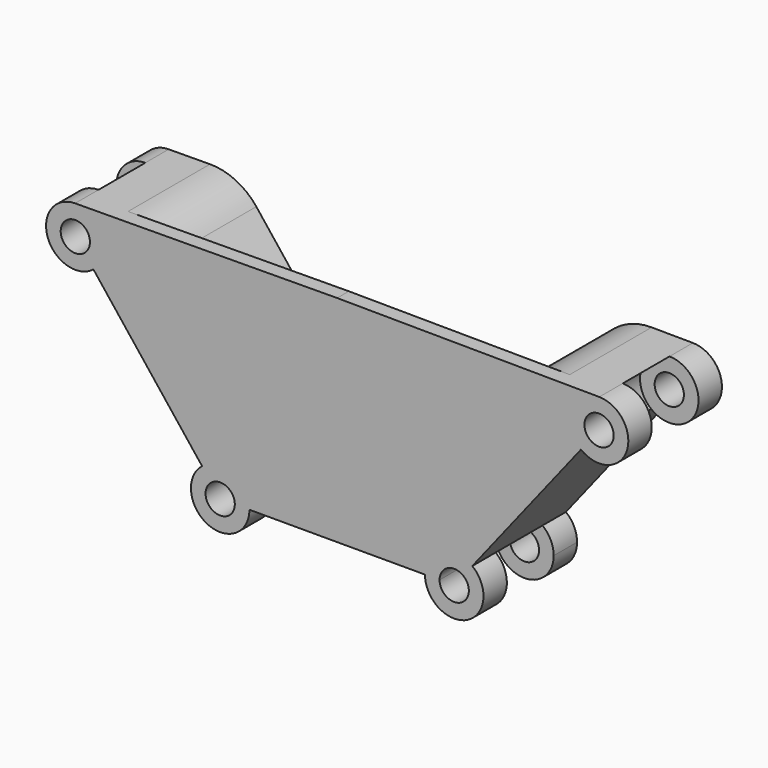
from build123d import *

# Parameters (mm, degrees)
F2_DEPTH = 50.8
F4_DEPTH = 88.9
F5_R     = 50.8
F6_R     = 12.7
F7_DEPTH = 25.4


with BuildPart() as f2:
    # F0 (on Front) → F2 (new body, symmetric)
    with BuildSketch(Plane.XZ):
        with BuildLine():
            Line((-76.2, 0), (0, 0))
            Line((0, 0), (76.2, 0))
            ThreePointArc((76.2, 0), (90.5141334361, 22.8530864989), (117.3231151597, 19.948525))
            Line((117.3231151597, 19.948525), (211.6618061177, 139.639675))
            ThreePointArc((211.6618061177, 139.639675), (203.4161012645, 167.9938925468), (227.564983392, 184.9875617564))
            Line((227.564983392, 184.9875617564), (0, 186.6008240309))
            Line((0, 186.6008240309), (-227.564983392, 184.9875617564))
            ThreePointArc((-227.564983392, 184.9875617564), (-209.4881838332, 177.6122613863), (-201.9849212774, 159.5882))
            ThreePointArc((-201.9849212774, 159.5882), (-204.5318347785, 148.5023334361), (-211.6618061177, 139.639675))
            Line((-211.6618061177, 139.639675), (-117.3231151597, 19.948525))
            ThreePointArc((-117.3231151597, 19.948525), (-90.5141334361, 22.8530864989), (-76.2, 0))
        make_face()
        with BuildLine():
            ThreePointArc((-227.564983392, 184.9875617564), (-251.3537412903, 151.1825074532), (-211.6618061177, 139.639675))
            ThreePointArc((-211.6618061177, 139.639675), (-204.5318347785, 148.5023334361), (-201.9849212774, 159.5882))
            ThreePointArc((-201.9849212774, 159.5882), (-209.4881838332, 177.6122613863), (-227.564983392, 184.9875617564))
        make_face()
        with BuildLine():
            ThreePointArc((-214.6849212774, 159.5882), (-215.9583780279, 154.0452667181), (-219.5233636976, 149.6139375))
            ThreePointArc((-219.5233636976, 149.6139375), (-238.8114645269, 165.1311332819), (-214.6849212774, 159.5882))
        make_face(mode=Mode.SUBTRACT)
        with BuildLine():
            ThreePointArc((-117.3231151597, 19.948525), (-112.6858665639, -22.8530864989), (-76.2, 0))
            Line((-76.2, 0), (-88.9, 0))
            ThreePointArc((-88.9, 0), (-107.1429332819, -11.4265432495), (-109.4615575798, 9.9742625))
            Line((-109.4615575798, 9.9742625), (-117.3231151597, 19.948525))
        make_face()
        with BuildLine():
            Line((88.9, 0), (76.2, 0))
            ThreePointArc((76.2, 0), (101.6, -25.4), (127, 0))
            ThreePointArc((127, 0), (124.4530864989, 11.0858665639), (117.3231151597, 19.948525))
            Line((117.3231151597, 19.948525), (109.4615575798, 9.9742625))
            ThreePointArc((109.4615575798, 9.9742625), (113.0265432495, 5.5429332819), (114.3, 0))
            ThreePointArc((114.3, 0), (101.6, -12.7), (88.9, 0))
        make_face()
        with BuildLine():
            ThreePointArc((117.3231151597, 19.948525), (90.5141334361, 22.8530864989), (76.2, 0))
            Line((76.2, 0), (88.9, 0))
            ThreePointArc((88.9, 0), (96.0570667181, 11.4265432495), (109.4615575798, 9.9742625))
            Line((109.4615575798, 9.9742625), (117.3231151597, 19.948525))
        make_face()
        with BuildLine():
            Line((-88.9, 0), (-76.2, 0))
            ThreePointArc((-76.2, 0), (-90.5141334361, 22.8530864989), (-117.3231151597, 19.948525))
            Line((-117.3231151597, 19.948525), (-109.4615575798, 9.9742625))
            ThreePointArc((-109.4615575798, 9.9742625), (-96.0570667181, 11.4265432495), (-88.9, 0))
        make_face()
        with BuildLine():
            ThreePointArc((227.564983392, 184.9875617564), (203.4161012645, 167.9938925468), (211.6618061177, 139.639675))
            ThreePointArc((211.6618061177, 139.639675), (238.4707878413, 136.7351135011), (252.7849212774, 159.5882))
            ThreePointArc((252.7849212774, 159.5882), (245.4089826636, 177.4849374441), (227.564983392, 184.9875617564))
        make_face()
        with BuildLine():
            ThreePointArc((240.0849212774, 159.5882), (232.9278545593, 148.1616567505), (219.5233636976, 149.6139375))
            ThreePointArc((219.5233636976, 149.6139375), (221.8419879955, 171.0147432495), (240.0849212774, 159.5882))
        make_face(mode=Mode.SUBTRACT)
    extrude(amount=F2_DEPTH, both=True)

    # F3 (on face) → F4 (cut)
    with BuildSketch(Plane(origin=(0, 50.8, 0), x_dir=(-1, 0, 0), z_dir=(0, 1, 0))):
        Polygon((0, 186.6008240309), (-166.8902328226, 185.4176994896), (-60.3365621927, 50.2289318176), (60.3365621927, 50.2289318176), (166.8902328226, 185.4176994896), align=None)
    extrude(amount=-F4_DEPTH, mode=Mode.SUBTRACT)

    # F5
    f5_edges = [f2.edges().sort_by_distance(p)[0] for p in [
        (166.890233, 6.35, 185.417699),
        (-166.890233, 6.35, 185.417699),
        (-60.336562, 6.35, 50.228932),
        (60.336562, 6.35, 50.228932),
    ]]
    fillet(f5_edges, radius=F5_R)

    # F6 (on face) → F7 (cut, symmetric)
    with BuildSketch(Plane.XZ):
        with BuildLine():
            ThreePointArc((206.9448715698, 133.6551175), (241.7965478104, 129.8791875514), (260.4049212774, 159.5882))
            ThreePointArc((260.4049212774, 159.5882), (241.5199905801, 189.4297853434), (206.4666889451, 185.1371325822))
            Line((206.4666889451, 185.1371325822), (227.564983392, 184.9875617564))
            ThreePointArc((227.564983392, 184.9875617564), (203.4161012645, 167.9938925468), (211.6618061177, 139.639675))
            Line((211.6618061177, 139.639675), (206.9448715698, 133.6551175))
        make_face()
        with Locations((227.3849212774, 159.5882)):
            Circle(F6_R, mode=Mode.SUBTRACT)
        with BuildLine():
            ThreePointArc((134.62, 0), (131.3090124486, 14.411626533), (122.0400497076, 25.9330825))
            Line((122.0400497076, 25.9330825), (117.3231151597, 19.948525))
            ThreePointArc((117.3231151597, 19.948525), (90.5141334361, 22.8530864989), (76.2, 0))
            Line((76.2, 0), (68.58, 0))
            ThreePointArc((68.58, 0), (101.6, -33.02), (134.62, 0))
        make_face()
        with Locations((101.6, 0)):
            Circle(F6_R, mode=Mode.SUBTRACT)
        with BuildLine():
            Line((-117.3231151597, 19.948525), (-122.0400497076, 25.9330825))
            ThreePointArc((-122.0400497076, 25.9330825), (-116.011626533, -29.7090124486), (-68.58, 0))
            Line((-68.58, 0), (-76.2, 0))
            ThreePointArc((-76.2, 0), (-90.5141334361, 22.8530864989), (-117.3231151597, 19.948525))
        make_face()
        with Locations((-101.6, 0)):
            Circle(F6_R, mode=Mode.SUBTRACT)
        with BuildLine():
            Line((-227.564983392, 184.9875617564), (-206.4666889451, 185.1371325822))
            ThreePointArc((-206.4666889451, 185.1371325822), (-260.403496997, 159.8948878633), (-206.9448715698, 133.6551175))
            Line((-206.9448715698, 133.6551175), (-211.6618061177, 139.639675))
            ThreePointArc((-211.6618061177, 139.639675), (-204.5318347785, 148.5023334361), (-201.9849212774, 159.5882))
            ThreePointArc((-201.9849212774, 159.5882), (-209.4881838332, 177.6122613863), (-227.564983392, 184.9875617564))
        make_face()
        with Locations((-227.3849212774, 159.5882)):
            Circle(F6_R, mode=Mode.SUBTRACT)
    extrude(amount=F7_DEPTH, both=True, mode=Mode.SUBTRACT)


solid = f2.part
